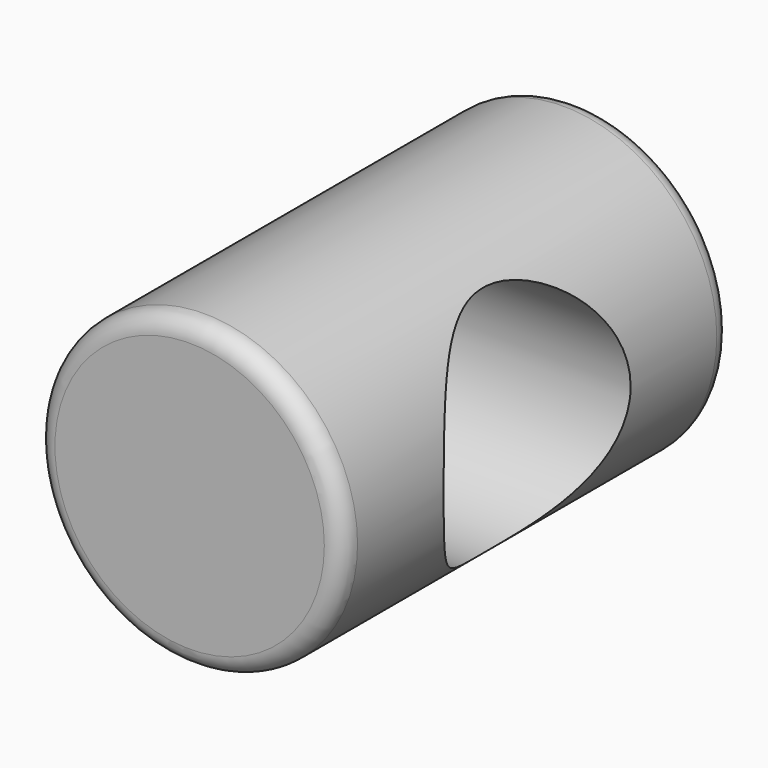
from build123d import *

# Parameters (mm, degrees)
F0_R     = 3.1623
F1_DEPTH = 10.033
F2_R     = 2.413
F3_DEPTH = 3.81
F4_R     = 0.381


with BuildPart() as f1:
    # F0 (on Front) → F1 (new body)
    with BuildSketch(Plane.XZ):
        Circle(F0_R)
    extrude(amount=-F1_DEPTH)

    # F2 (on Right) → F3 (cut, symmetric)
    with BuildSketch(Plane.YZ):
        with Locations((5.0165, 0)):
            Circle(F2_R)
    extrude(amount=F3_DEPTH, both=True, mode=Mode.SUBTRACT)

    # F4
    f4_edges = [f1.edges().sort_by_distance(p)[0] for p in [
        (-3.1623, 10.033, 0),
        (-3.1623, 0, 0),
    ]]
    fillet(f4_edges, radius=F4_R)


solid = f1.part
